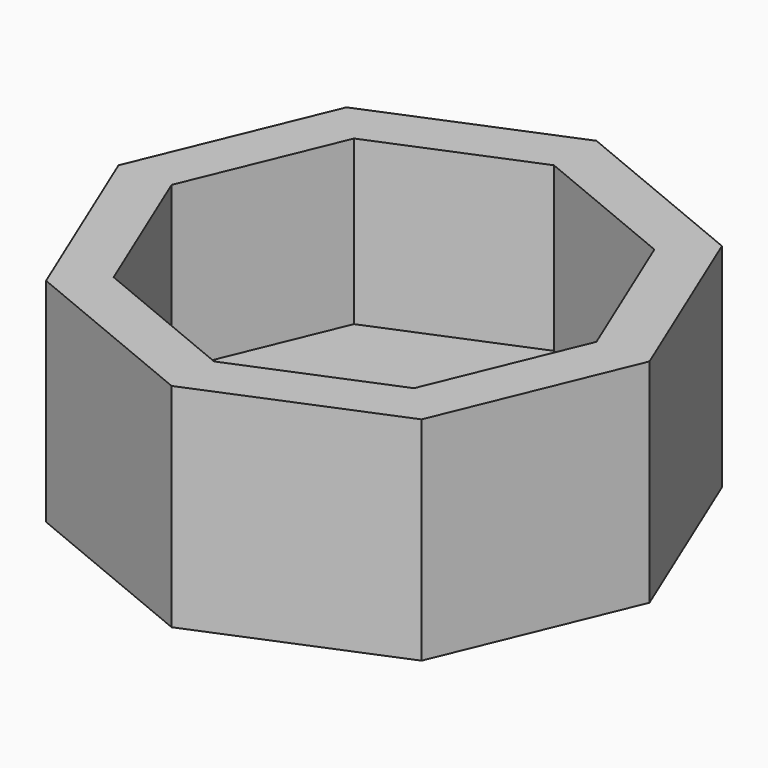
from build123d import *

# Parameters (mm, degrees)
F2_DEPTH = 13
F3_T     = -3
F4_R     = 5.105166
F5_DEPTH = 25


with BuildPart() as f2:
    # F1 (on Top) → F2 (new body)
    with BuildSketch(Plane.XY):
        Polygon((-11.488489, 11.488489), (-16.247177, 0), (-11.488489, -11.488489), (0, -16.247177), (11.488489, -11.488489), (16.247177, 0), (11.488489, 11.488489), (0, 16.247177), align=None)
    extrude(amount=F2_DEPTH)

    # F3
    f3_openings = [f2.faces().sort_by_distance(p)[0] for p in [
        (0, 0, 13),
    ]]
    offset(amount=F3_T, openings=f3_openings)

    # F4 (on Top) → F5 (cut)
    with BuildSketch(Plane.XY):
        Circle(F4_R)
    extrude(amount=F5_DEPTH, mode=Mode.SUBTRACT)


solid = f2.part
